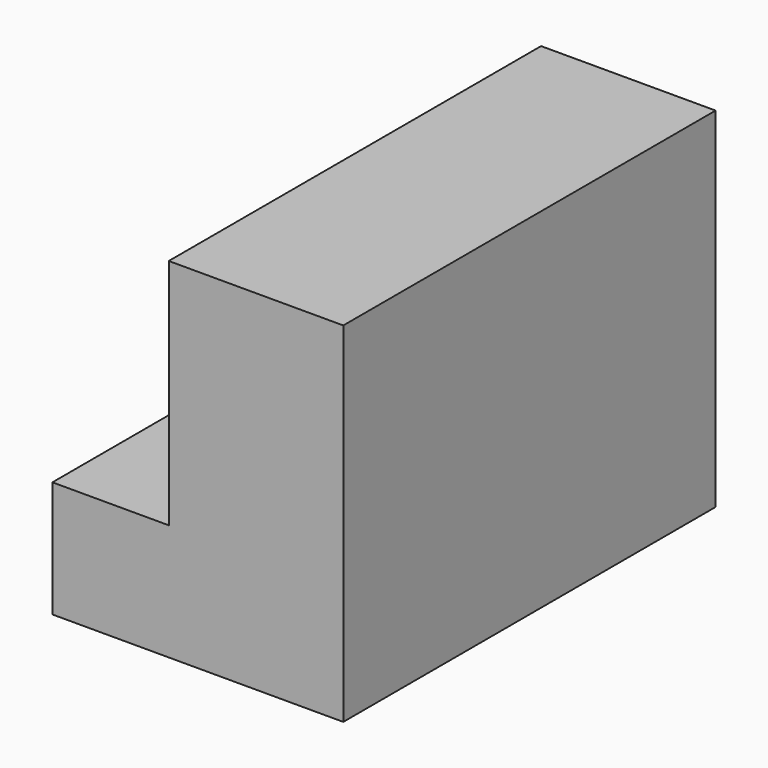
from build123d import *

# Parameters (mm, degrees)
F1_DEPTH = 101.6
F3_DEPTH = 25.4


with BuildPart() as f1:
    # F0 (on Front) → F1 (new body)
    with BuildSketch(Plane.XZ):
        Polygon((-35.885991, 6.716738), (-35.885991, -18.683262), (27.614009, -18.683262), (27.614009, 57.516738), (-10.485991, 57.516738), (-10.485991, 6.716738), align=None)
    extrude(amount=F1_DEPTH)

    # F2 (on Right) → F3 (cut)
    with BuildSketch(Plane.YZ):
        Polygon((-17.54909, 18.968504), (-17.54909, 57.19075), (-68.607166, 57.475988), (-68.607166, 18.968504), align=None)
    extrude(amount=-F3_DEPTH, mode=Mode.SUBTRACT)


solid = f1.part
